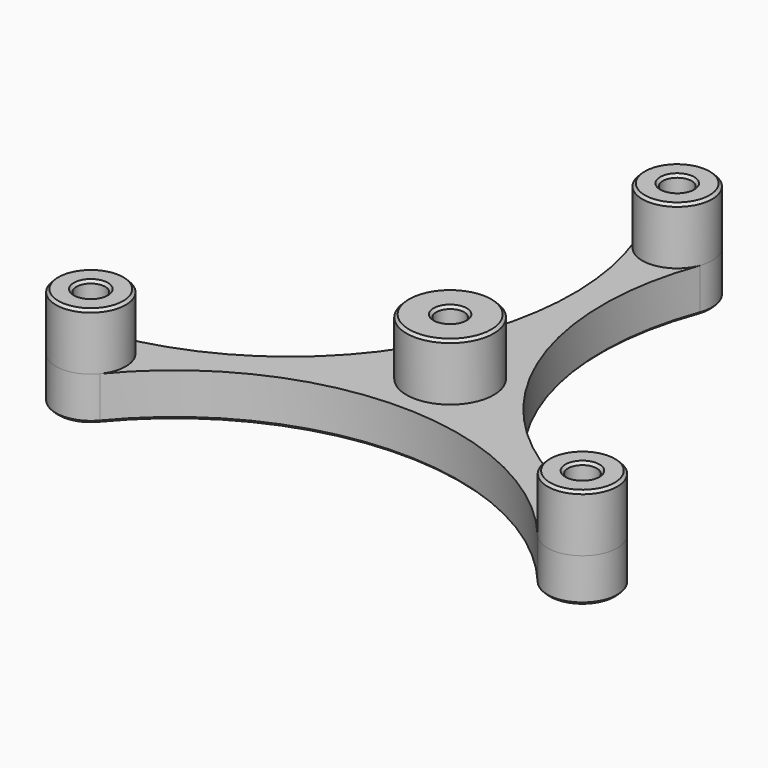
from build123d import *

# Parameters (mm, degrees)
SKETCH_R      = 3.2
SKETCH_R_2    = 3.3
PAD_DEPTH     = 10
SKETCH001_R   = 10
SKETCH001_R_2 = 3.2
SKETCH001_R_3 = 8
SKETCH001_R_4 = 3.3
PAD001_DEPTH  = 13
CHAMFER_SIZE  = 0.6


with BuildPart() as part:
    # Sketch → Pad (new body)
    with BuildSketch(Plane.XY):
        with BuildLine():
            ThreePointArc((7.495603, 62.204301), (0, 73), (-7.495603, 62.204301))
            ThreePointArc((-57.618306, -24.610768), (-12.105727, 6.989245), (-7.495603, 62.204301))
            ThreePointArc((-57.618306, -24.610768), (-63.219854, -36.5), (-50.122703, -37.593533))
            ThreePointArc((50.122703, -37.593533), (0, -13.97849), (-50.122703, -37.593533))
            ThreePointArc((50.122703, -37.593533), (63.219854, -36.5), (57.618306, -24.610768))
            ThreePointArc((7.495603, 62.204301), (12.105727, 6.989245), (57.618306, -24.610768))
        make_face()
        Circle(SKETCH_R, mode=Mode.SUBTRACT)
        with Locations((0, 65)):
            Circle(SKETCH_R_2, mode=Mode.SUBTRACT)
        with Locations((56.291651, -32.5)):
            Circle(SKETCH_R_2, mode=Mode.SUBTRACT)
        with Locations((-56.291651, -32.5)):
            Circle(SKETCH_R_2, mode=Mode.SUBTRACT)
    extrude(amount=PAD_DEPTH)

    # Sketch001 (on Face12 of Pad) → Pad001 (join)
    with BuildSketch(Plane.XY.offset(10)):
        Circle(SKETCH001_R)
        Circle(SKETCH001_R_2, mode=Mode.SUBTRACT)
        with Locations((-56.291651, -32.5)):
            Circle(SKETCH001_R_3)
        with Locations((-56.291651, -32.5)):
            Circle(SKETCH001_R_4, mode=Mode.SUBTRACT)
        with Locations((56.291651, -32.5)):
            Circle(SKETCH001_R_3)
        with Locations((56.291651, -32.5)):
            Circle(SKETCH001_R_4, mode=Mode.SUBTRACT)
        with Locations((0, 65)):
            Circle(SKETCH001_R_3)
        with Locations((0, 65)):
            Circle(SKETCH001_R_4, mode=Mode.SUBTRACT)
    extrude(amount=PAD001_DEPTH)

    # Chamfer
    chamfer_edges = [part.edges().sort_by_distance(p)[0] for p in [
        (-64.291651, -32.5, 23),
        (-59.591651, -32.5, 23),
        (-10, 0, 23),
        (-3.2, 0, 23),
        (-8, 65, 23),
        (-3.3, 65, 23),
        (48.291651, -32.5, 23),
        (52.991651, -32.5, 23),
        (7.872891, 63.579582, 0),
        (-1.420418, 72.872891, 0),
        (-12.105727, 6.989245, 0),
        (-63.219854, -36.5, 0),
        (0, -13.97849, 0),
        (58.997979, -40.028333, 0),
        (62.399566, -27.333436, 0),
        (12.105727, 6.989245, 0),
        (-3.3, 65, 0),
        (-59.591651, -32.5, 0),
        (52.991651, -32.5, 0),
        (-3.2, 0, 0),
    ]]
    chamfer(chamfer_edges, length=CHAMFER_SIZE)


solid = part.part
